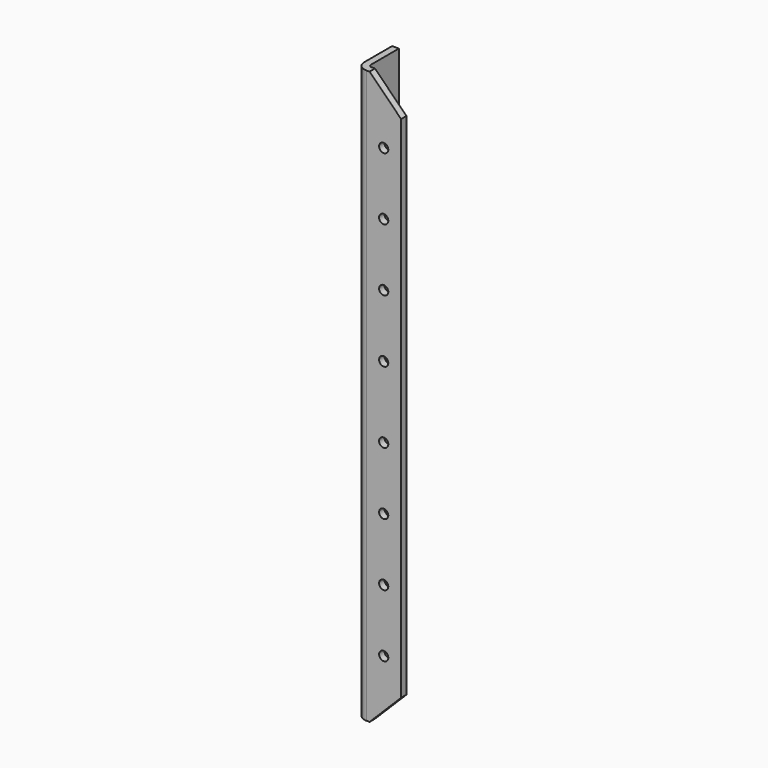
from build123d import *

# Parameters (mm, degrees)
F1_DEPTH = 406.4
F2_SIZE  = 22.352
F3_R     = 2.4638
F4_DEPTH = 25.4
F5_R     = 3.2639
F6_DEPTH = 25.4


with BuildPart() as f1:
    # F0 (on Top) → F1 (new body)
    with BuildSketch(Plane.XY):
        with BuildLine():
            ThreePointArc((0, 7.0612), (2.068178, 2.068178), (7.0612, 0))
            Line((7.0612, 0), (31.75, 0))
            Line((31.75, 0), (31.75, 4.7752))
            Line((31.75, 4.7752), (7.0612, 4.7752))
            ThreePointArc((7.0612, 4.7752), (5.444754, 5.444754), (4.7752, 7.0612))
            Line((4.7752, 7.0612), (4.7752, 31.75))
            Line((4.7752, 31.75), (0, 31.75))
            Line((0, 31.75), (0, 7.0612))
        make_face()
    extrude(amount=-F1_DEPTH)

    # F2
    f2_edges = [f1.edges().sort_by_distance(p)[0] for p in [
        (31.75, 2.3876, 0),
        (31.75, 2.3876, -406.4),
    ]]
    chamfer(f2_edges, length=F2_SIZE)

    # F3 (on face) → F4 (cut)
    with BuildSketch(Plane.YZ.offset(4.7752)):
        with Locations((19.4056, -330.2)):
            Circle(F3_R)
        with Locations((19.4056, -76.2)):
            Circle(F3_R)
        with Locations((19.4056, -25.4)):
            Circle(F3_R)
        with Locations((19.4056, -381)):
            Circle(F3_R)
        with Locations((19.4056, -279.4)):
            Circle(F3_R)
        with Locations((19.4056, -228.6)):
            Circle(F3_R)
        with Locations((19.4056, -177.8)):
            Circle(F3_R)
        with Locations((19.4056, -127)):
            Circle(F3_R)
    extrude(amount=-F4_DEPTH, mode=Mode.SUBTRACT)

    # F5 (on face) → F6 (cut)
    with BuildSketch(Plane.XZ):
        with Locations((19.4056, -177.8)):
            Circle(F5_R)
        with Locations((19.4056, -133.35)):
            Circle(F5_R)
        with Locations((19.4056, -88.9)):
            Circle(F5_R)
        with Locations((19.4056, -44.45)):
            Circle(F5_R)
        with Locations((19.4056, -361.95)):
            Circle(F5_R)
        with Locations((19.4056, -317.5)):
            Circle(F5_R)
        with Locations((19.4056, -273.05)):
            Circle(F5_R)
        with Locations((19.4056, -228.6)):
            Circle(F5_R)
    extrude(amount=-F6_DEPTH, mode=Mode.SUBTRACT)


solid = f1.part
